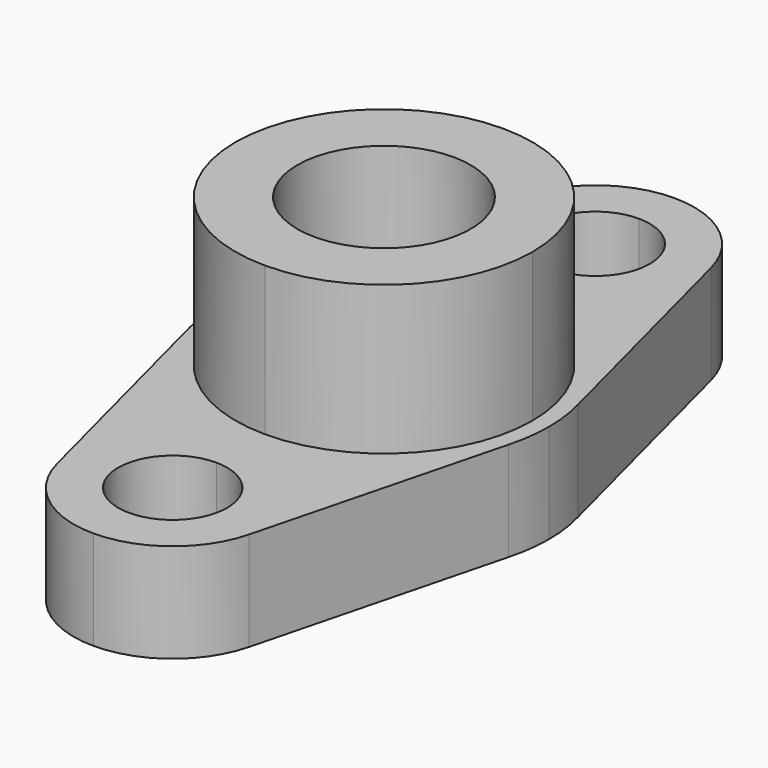
from build123d import *

# Parameters (mm, degrees)
F1_DEPTH = 6
F2_DEPTH = 15
F5_D     = 10.5
F5_DEPTH = 8
F5_TIP   = 3.1545182499
F6_D     = 9
F6_DEPTH = 8
F6_TIP   = 2.7038727856


with BuildPart() as f1:
    # F0 (on Top) → F1 (new body)
    with BuildSketch(Plane.XY):
        with BuildLine():
            ThreePointArc((0, 9), (6.3639610307, 6.3639610307), (9, 0))
            Line((9, 0), (10, 0))
            ThreePointArc((10, 0), (9.9114443967, 1.327881761), (9.6473460058, 2.6322452478))
            Line((9.6473460058, 2.6322452478), (5.8095664532, 17.4996458335))
            ThreePointArc((5.8095664532, 17.4996458335), (3.6743791992, 20.7433044917), (0, 22))
            Line((0, 22), (0, 19.3))
            ThreePointArc((0, 19.3), (2.3334523779, 18.3334523779), (3.3, 16))
            ThreePointArc((3.3, 16), (2.3334523779, 13.6665476221), (0, 12.7))
            Line((0, 12.7), (0, 9))
        make_face()
        with BuildLine():
            ThreePointArc((-9, 0), (-6.3639610307, 6.3639610307), (0, 9))
            Line((0, 9), (0, 12.7))
            ThreePointArc((0, 12.7), (-3.3, 16), (0, 19.3))
            Line((0, 19.3), (0, 22))
            ThreePointArc((0, 22), (-3.6743791992, 20.7433044917), (-5.8095664532, 17.4996458335))
            Line((-5.8095664532, 17.4996458335), (-9.6473460058, 2.6322452478))
            ThreePointArc((-9.6473460058, 2.6322452478), (-9.9114443967, 1.327881761), (-10, 0))
            Line((-10, 0), (-9, 0))
        make_face()
        with BuildLine():
            Line((0, -12.7), (0, -9))
            ThreePointArc((0, -9), (-6.3639610307, -6.3639610307), (-9, 0))
            Line((-9, 0), (-10, 0))
            ThreePointArc((-10, 0), (-9.9114443967, -1.327881761), (-9.6473460058, -2.6322452478))
            Line((-9.6473460058, -2.6322452478), (-5.8095664532, -17.4996458335))
            ThreePointArc((-5.8095664532, -17.4996458335), (-3.6743791992, -20.7433044917), (0, -22))
            Line((0, -22), (0, -19.3))
            ThreePointArc((0, -19.3), (-3.3, -16), (0, -12.7))
        make_face()
        with BuildLine():
            Line((10, 0), (9, 0))
            ThreePointArc((9, 0), (6.3639610307, -6.3639610307), (0, -9))
            Line((0, -9), (0, -12.7))
            ThreePointArc((0, -12.7), (2.3334523779, -13.6665476221), (3.3, -16))
            ThreePointArc((3.3, -16), (2.3334523779, -18.3334523779), (0, -19.3))
            Line((0, -19.3), (0, -22))
            ThreePointArc((0, -22), (3.6743791992, -20.7433044917), (5.8095664532, -17.4996458335))
            Line((5.8095664532, -17.4996458335), (9.6473460058, -2.6322452478))
            ThreePointArc((9.6473460058, -2.6322452478), (9.9114443967, -1.327881761), (10, 0))
        make_face()
    extrude(amount=F1_DEPTH)

    # F0 (on Top) → F2 (join)
    with BuildSketch(Plane.XY):
        with BuildLine():
            ThreePointArc((-9, 0), (-6.3639610307, -6.3639610307), (0, -9))
            Line((0, -9), (0, 0))
            Line((0, 0), (-9, 0))
        make_face()
        with BuildLine():
            Line((0, 0), (0, 9))
            ThreePointArc((0, 9), (-6.3639610307, 6.3639610307), (-9, 0))
            Line((-9, 0), (0, 0))
        make_face()
        with BuildLine():
            Line((0, 0), (9, 0))
            ThreePointArc((9, 0), (6.3639610307, 6.3639610307), (0, 9))
            Line((0, 9), (0, 0))
        make_face()
        with BuildLine():
            ThreePointArc((0, -9), (6.3639610307, -6.3639610307), (9, 0))
            Line((9, 0), (0, 0))
            Line((0, 0), (0, -9))
        make_face()
    extrude(amount=F2_DEPTH)

    # F5
    with Locations(Plane.XY.offset(15)):
        with Locations((0, 0)):
            Hole(F5_D / 2, depth=F5_DEPTH)
            with Locations((0, 0, -(F5_DEPTH + F5_TIP / 2))):  # 118° drill point
                Cone(0, F5_D / 2, F5_TIP, mode=Mode.SUBTRACT)

    # F6
    with Locations(Plane(origin=(0, 0, 0), x_dir=(1, 0, 0), z_dir=(0, 0, -1))):
        with Locations((0, 0)):
            Hole(F6_D / 2, depth=F6_DEPTH)
            with Locations((0, 0, -(F6_DEPTH + F6_TIP / 2))):  # 118° drill point
                Cone(0, F6_D / 2, F6_TIP, mode=Mode.SUBTRACT)


solid = f1.part
